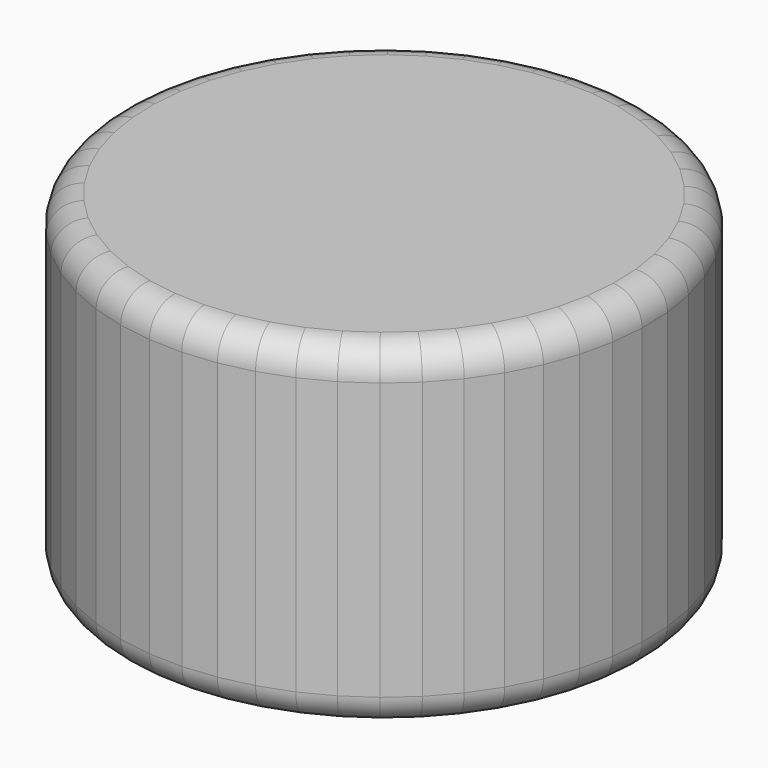
from build123d import *

# Parameters (mm, degrees)
F1_DEPTH = 57.912
F2_R     = 5.08
F3_R     = 5.08


with BuildPart() as f1:
    # F0 (on Top) → F1 (new body)
    with BuildSketch(Plane.XY):
        Polygon((50.415788, 17.997737), (48.490588, 12.602444), (47.256778, 7.008404), (46.733816, 1.303837), (46.929949, -4.421292), (47.842085, -10.076695), (49.455839, -15.573182), (51.74576, -20.824071), (54.675735, -25.746552), (58.199557, -30.262995), (62.261653, -34.302171), (66.797961, -37.800383), (71.736942, -40.702459), (77.000703, -42.962634), (82.506233, -44.545262), (88.166706, -45.425384), (93.892854, -45.589122), (99.59437, -45.033891), (105.18134, -43.768449), (110.565653, -41.812753), (115.662395, -39.197644), (120.391188, -35.964366), (124.677456, -32.163907), (128.453601, -27.856205), (131.660072, -23.109194), (134.246301, -17.997737), (136.171501, -12.602444), (137.405311, -7.008404), (137.928273, -1.303837), (137.732139, 4.421292), (136.820003, 10.076695), (135.20625, 15.573182), (132.916329, 20.824071), (129.986353, 25.746552), (126.462531, 30.262995), (122.400436, 34.302171), (117.864127, 37.800383), (112.925147, 40.702459), (107.661386, 42.962634), (102.155856, 44.545262), (96.495382, 45.425384), (90.769235, 45.589122), (85.067718, 45.033891), (79.480749, 43.768449), (74.096436, 41.812753), (68.999694, 39.197644), (64.270901, 35.964366), (59.984633, 32.163907), (56.208488, 27.856205), (53.002017, 23.109194), align=None)
    extrude(amount=F1_DEPTH)

    # F2
    f2_edges = [f1.edges().sort_by_distance(p)[0] for p in [
        (124.431484, 32.282583, 0),
        (120.132281, 36.051277, 0),
        (115.394637, 39.251421, 0),
        (110.293266, 41.832546, 0),
        (104.908621, 43.753948, 0),
        (99.325619, 44.985323, 0),
        (93.632309, 45.507253, 0),
        (87.918477, 45.311506, 0),
        (82.274233, 44.40117, 0),
        (76.788592, 42.790601, 0),
        (71.548065, 40.505199, 0),
        (66.635297, 37.581005, 0),
        (62.127767, 34.064136, 0),
        (58.09656, 30.010056, 0),
        (54.605252, 25.482699, 0),
        (51.708902, 20.553465, 0),
        (49.453188, 15.30009, 0),
        (47.873683, 9.805424, 0),
        (46.995297, 4.156121, 0),
        (46.831883, -1.558727, 0),
        (47.386017, -7.248994, 0),
        (48.648962, -12.824939, 0),
        (50.600799, -18.198627, 0),
        (53.210748, -23.285312, 0),
        (56.437646, -28.004773, 0),
        (60.230605, -32.282583, 0),
        (64.529807, -36.051277, 0),
        (69.267451, -39.251421, 0),
        (74.368822, -41.832546, 0),
        (79.753468, -43.753948, 0),
        (85.33647, -44.985323, 0),
        (91.02978, -45.507253, 0),
        (96.743612, -45.311506, 0),
        (102.387855, -44.40117, 0),
        (107.873497, -42.790601, 0),
        (113.114024, -40.505199, 0),
        (118.026792, -37.581005, 0),
        (122.534322, -34.064136, 0),
        (126.565528, -30.010056, 0),
        (130.056837, -25.482699, 0),
        (132.953187, -20.553465, 0),
        (135.208901, -15.30009, 0),
        (136.788406, -9.805424, 0),
        (137.666792, -4.156121, 0),
        (137.830206, 1.558727, 0),
        (137.276071, 7.248994, 0),
        (136.013127, 12.824939, 0),
        (134.061289, 18.198627, 0),
        (131.451341, 23.285312, 0),
        (128.224442, 28.004773, 0),
    ]]
    fillet(f2_edges, radius=F2_R)

    # F3
    f3_edges = [f1.edges().sort_by_distance(p)[0] for p in [
        (124.431484, 32.282583, 57.912),
        (120.132281, 36.051277, 57.912),
        (115.394637, 39.251421, 57.912),
        (110.293266, 41.832546, 57.912),
        (104.908621, 43.753948, 57.912),
        (99.325619, 44.985323, 57.912),
        (93.632309, 45.507253, 57.912),
        (87.918477, 45.311506, 57.912),
        (82.274233, 44.40117, 57.912),
        (76.788592, 42.790601, 57.912),
        (71.548065, 40.505199, 57.912),
        (66.635297, 37.581005, 57.912),
        (62.127767, 34.064136, 57.912),
        (58.09656, 30.010056, 57.912),
        (54.605252, 25.482699, 57.912),
        (51.708902, 20.553465, 57.912),
        (49.453188, 15.30009, 57.912),
        (47.873683, 9.805424, 57.912),
        (46.995297, 4.156121, 57.912),
        (46.831883, -1.558727, 57.912),
        (47.386017, -7.248994, 57.912),
        (48.648962, -12.824939, 57.912),
        (50.600799, -18.198627, 57.912),
        (53.210748, -23.285312, 57.912),
        (56.437646, -28.004773, 57.912),
        (60.230605, -32.282583, 57.912),
        (64.529807, -36.051277, 57.912),
        (69.267451, -39.251421, 57.912),
        (74.368822, -41.832546, 57.912),
        (79.753468, -43.753948, 57.912),
        (85.33647, -44.985323, 57.912),
        (91.02978, -45.507253, 57.912),
        (96.743612, -45.311506, 57.912),
        (102.387855, -44.40117, 57.912),
        (107.873497, -42.790601, 57.912),
        (113.114024, -40.505199, 57.912),
        (118.026792, -37.581005, 57.912),
        (122.534322, -34.064136, 57.912),
        (126.565528, -30.010056, 57.912),
        (130.056837, -25.482699, 57.912),
        (132.953187, -20.553465, 57.912),
        (135.208901, -15.30009, 57.912),
        (136.788406, -9.805424, 57.912),
        (137.666792, -4.156121, 57.912),
        (137.830206, 1.558727, 57.912),
        (137.276071, 7.248994, 57.912),
        (136.013127, 12.824939, 57.912),
        (134.061289, 18.198627, 57.912),
        (131.451341, 23.285312, 57.912),
        (128.224442, 28.004773, 57.912),
    ]]
    fillet(f3_edges, radius=F3_R)


solid = f1.part
